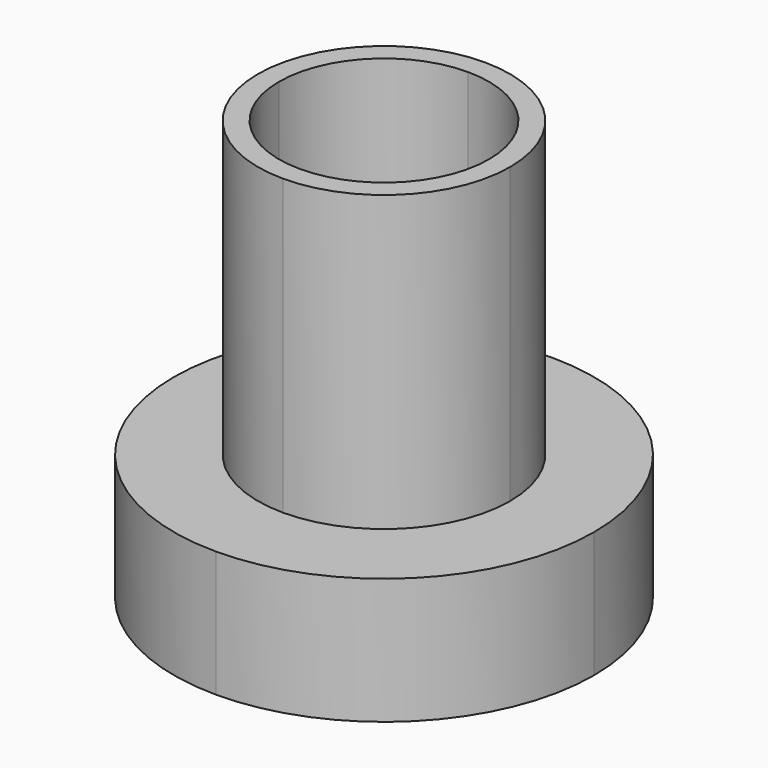
from build123d import *

# Parameters (mm, degrees)
F1_DEPTH = 10
F2_DEPTH = 3


with BuildPart() as f1:
    # F0 (on Top) → F1 (new body)
    with BuildSketch(Plane.XY):
        with BuildLine():
            Line((0, 2.5), (0, 3))
            ThreePointArc((0, 3), (-2.1213203436, 2.1213203436), (-3, 0))
            Line((-3, 0), (-2.5, 0))
            ThreePointArc((-2.5, 0), (-1.767766953, 1.767766953), (0, 2.5))
        make_face()
        with BuildLine():
            ThreePointArc((-3, 0), (-2.1213203436, -2.1213203436), (0, -3))
            Line((0, -3), (0, -2.5))
            ThreePointArc((0, -2.5), (-1.767766953, -1.767766953), (-2.5, 0))
            Line((-2.5, 0), (-3, 0))
        make_face()
        with BuildLine():
            ThreePointArc((0, -3), (2.1213203436, -2.1213203436), (3, 0))
            Line((3, 0), (2.5, 0))
            ThreePointArc((2.5, 0), (1.767766953, -1.767766953), (0, -2.5))
            Line((0, -2.5), (0, -3))
        make_face()
        with BuildLine():
            Line((2.5, 0), (3, 0))
            ThreePointArc((3, 0), (2.1213203436, 2.1213203436), (0, 3))
            Line((0, 3), (0, 2.5))
            ThreePointArc((0, 2.5), (1.767766953, 1.767766953), (2.5, 0))
        make_face()
    extrude(amount=F1_DEPTH)

    # F0 (on Top) → F2 (join)
    with BuildSketch(Plane.XY):
        with BuildLine():
            Line((0, 3), (0, 5))
            ThreePointArc((0, 5), (-3.5355339059, 3.5355339059), (-5, 0))
            Line((-5, 0), (-3, 0))
            ThreePointArc((-3, 0), (-2.1213203436, 2.1213203436), (0, 3))
        make_face()
        with BuildLine():
            ThreePointArc((0, -5), (3.5355339059, -3.5355339059), (5, 0))
            Line((5, 0), (3, 0))
            ThreePointArc((3, 0), (2.1213203436, -2.1213203436), (0, -3))
            Line((0, -3), (0, -5))
        make_face()
        with BuildLine():
            ThreePointArc((-5, 0), (-3.5355339059, -3.5355339059), (0, -5))
            Line((0, -5), (0, -3))
            ThreePointArc((0, -3), (-2.1213203436, -2.1213203436), (-3, 0))
            Line((-3, 0), (-5, 0))
        make_face()
        with BuildLine():
            Line((0, 3), (0, 5))
            ThreePointArc((0, 5), (-3.5355339059, 3.5355339059), (-5, 0))
            Line((-5, 0), (-3, 0))
            ThreePointArc((-3, 0), (-2.1213203436, 2.1213203436), (0, 3))
        make_face()
        with BuildLine():
            ThreePointArc((-5, 0), (-3.5355339059, -3.5355339059), (0, -5))
            Line((0, -5), (0, -3))
            ThreePointArc((0, -3), (-2.1213203436, -2.1213203436), (-3, 0))
            Line((-3, 0), (-5, 0))
        make_face()
        with BuildLine():
            ThreePointArc((0, -5), (3.5355339059, -3.5355339059), (5, 0))
            Line((5, 0), (3, 0))
            ThreePointArc((3, 0), (2.1213203436, -2.1213203436), (0, -3))
            Line((0, -3), (0, -5))
        make_face()
        with BuildLine():
            Line((3, 0), (5, 0))
            ThreePointArc((5, 0), (3.5355339059, 3.5355339059), (0, 5))
            Line((0, 5), (0, 3))
            ThreePointArc((0, 3), (2.1213203436, 2.1213203436), (3, 0))
        make_face()
    extrude(amount=F2_DEPTH)


solid = f1.part
